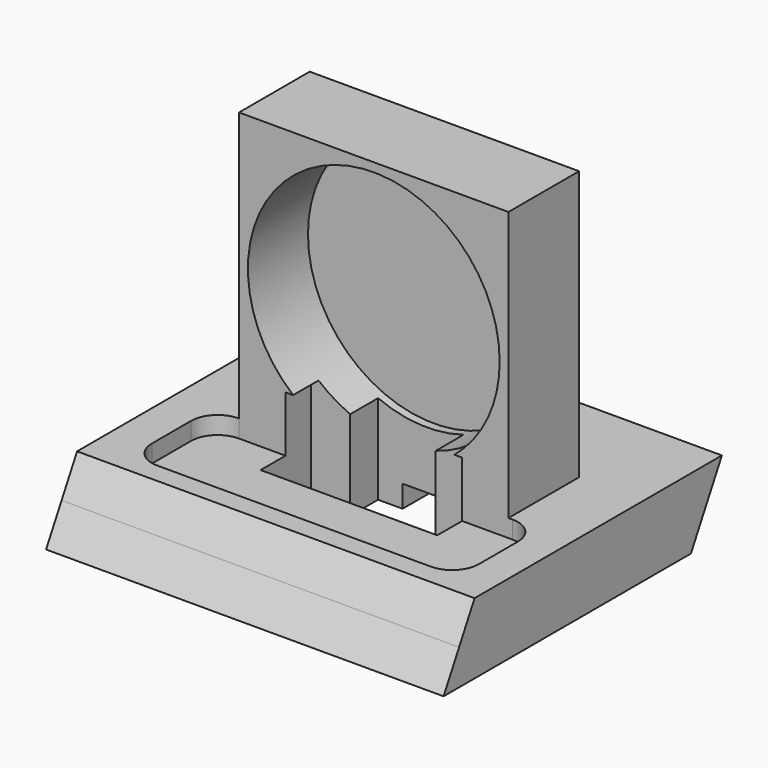
from build123d import *

# Parameters (mm, degrees)
F1_DEPTH  = 45
F2_W      = 37
F2_H      = 11.55
F3_DEPTH  = 2
F4_R      = 3
F5_W      = 30.5
F5_H      = 10
F6_DEPTH  = 30.5
F7_R      = 14.25
F8_DEPTH  = 8.5
F10_W     = 20
F10_H     = 7.113087
F11_DEPTH = 25.4
F12_W     = 5.534876
F12_H     = 25.616745
F13_DEPTH = 2.5
F14_W     = 9.670809
F14_H     = 9.330716
F15_DEPTH = 25.4


with BuildPart() as f1:
    # F0 (on Right) → F1 (new body)
    with BuildSketch(Plane.YZ):
        Polygon((-35, 8), (-37.193318, 4), (-39.387777, 0), (-4.386635, 0), (-2.193318, 4), (0, 8), align=None)
    extrude(amount=F1_DEPTH)

    # F2 (on face) → F3 (cut)
    with BuildSketch(Plane.XY.offset(8)):
        with Locations((22.725, -26.922163)):
            Rectangle(F2_W, F2_H)
        with Locations((22.725, -26.922163)):
            Rectangle(F2_W, F2_H)
    extrude(amount=-F3_DEPTH, mode=Mode.SUBTRACT)

    # F4
    f4_edges = [f1.edges().sort_by_distance(p)[0] for p in [
        (4.225, -21.147163, 7),
        (4.225, -32.697163, 7),
        (41.225, -21.147163, 7),
        (41.225, -32.697163, 7),
    ]]
    fillet(f4_edges, radius=F4_R)

    # F5 (on face) → F6 (join)
    with BuildSketch(Plane.XY.offset(8)):
        with Locations((22.5, -16.147163)):
            Rectangle(F5_W, F5_H)
    extrude(amount=F6_DEPTH)

    # F7 (on face) → F8 (cut)
    with BuildSketch(Plane.XZ.offset(21.147163)):
        with Locations((22.506247, 23.256247)):
            Circle(F7_R)
    extrude(amount=-F8_DEPTH, mode=Mode.SUBTRACT)

    # F10 (on offset) → F11 (cut)
    with BuildSketch(Plane.XY.offset(12.319)):
        with Locations((22.506516, -21.107878)):
            Rectangle(F10_W, F10_H)
    extrude(amount=-F11_DEPTH, mode=Mode.SUBTRACT)

    # F12 (on face) → F13 (cut)
    with BuildSketch(Plane(origin=(0, 0, 0), x_dir=(1, 0, 0), z_dir=(0, 0, -1))):
        with Locations((22.506516, 4.771188)):
            Rectangle(F12_W, F12_H)
    extrude(amount=-F13_DEPTH, mode=Mode.SUBTRACT)

    # F14 (on offset) → F15 (cut)
    with BuildSketch(Plane.XY.offset(12.319)):
        with Locations((21.799793, -18.280461)):
            Rectangle(F14_W, F14_H)
    extrude(amount=-F15_DEPTH, mode=Mode.SUBTRACT)


solid = f1.part
